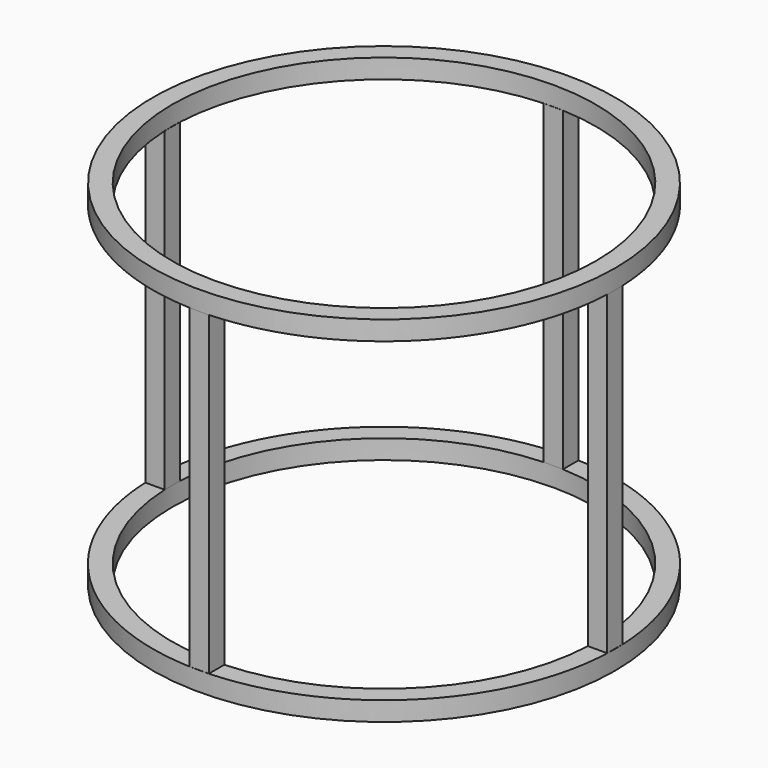
from build123d import *

# Parameters (mm, degrees)
F1_R     = 300
F1_R_2   = 275
F2_DEPTH = 25
F3_W     = 25
F3_H     = 25
F4_DEPTH = 410
F6_R     = 300
F6_R_2   = 275
F7_DEPTH = 25


with BuildPart() as f2:
    # F1 (on face) → F2 (new body)
    with BuildSketch(Plane.XY):
        Circle(F1_R)
        Circle(F1_R_2, mode=Mode.SUBTRACT)
    extrude(amount=F2_DEPTH)

    # F3 (on face) → F4 (join)
    with BuildSketch(Plane.XY.offset(25)):
        with Locations((0, 287.215762)):
            Rectangle(F3_W, F3_H)
        with Locations((-287.215762, 0)):
            Rectangle(F3_W, F3_H)
        with Locations((0, -287.215762)):
            Rectangle(F3_W, F3_H)
        with Locations((287.215762, 0)):
            Rectangle(F3_W, F3_H)
    extrude(amount=F4_DEPTH)

    # F6 (on offset) → F7 (join)
    with BuildSketch(Plane.XY.offset(435)):
        Circle(F6_R)
        Circle(F6_R_2, mode=Mode.SUBTRACT)
    extrude(amount=F7_DEPTH)


solid = f2.part
